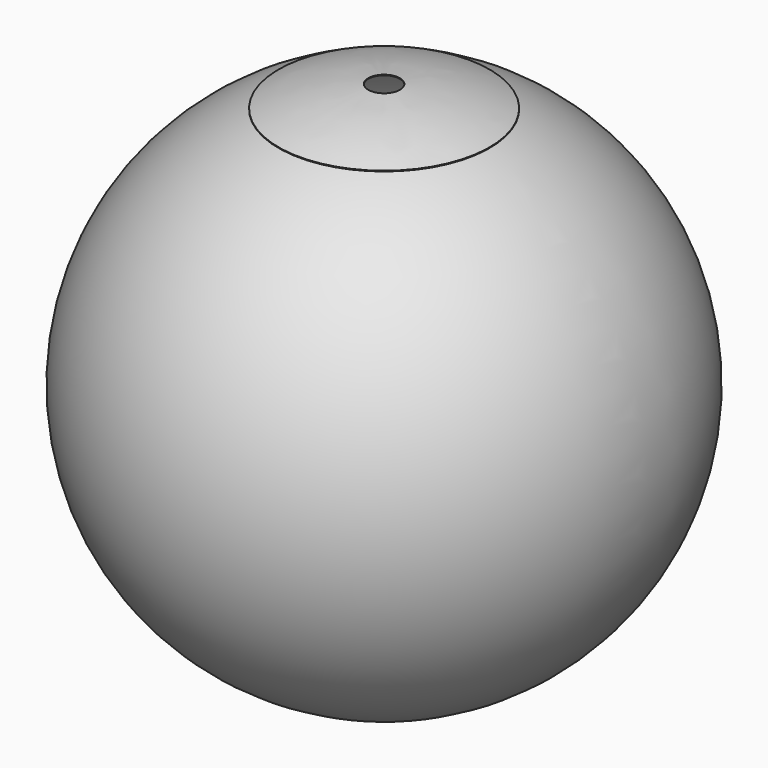
from build123d import *

# Parameters (mm, degrees)
F3_R     = 50
F4_DEPTH = 76.2
F8_R     = 15
F9_DEPTH = 114.3


with BuildPart() as f1:
    # F0 (on Front) → F1 (revolve)
    with BuildSketch(Plane.XZ):
        with BuildLine():
            Line((0, -245), (0, -250))
            ThreePointArc((0, -250), (250, 0), (0, 250))
            Line((0, 250), (0, 245))
            ThreePointArc((0, 245), (245, 0), (0, -245))
        make_face()
    revolve(axis=Axis((0, 0, 257.264091), (0, 0, -1)))

    # F3 (on offset) → F4 (cut)
    with BuildSketch(Plane.XY.offset(264.16)):
        Circle(F3_R)
    extrude(amount=-F4_DEPTH, mode=Mode.SUBTRACT)


with BuildPart() as f6:
    # F5 (on Right) → F6 (revolve)
    with BuildSketch(Plane.YZ):
        with BuildLine():
            Line((0, 251), (0, 250.4))
            ThreePointArc((0, 250.4), (51.073699, 245.135957), (100, 229.565154))
            Line((100, 229.565154), (100, 230.219461))
            ThreePointArc((100, 230.219461), (51.068167, 245.749959), (0, 251))
        make_face()
    revolve(axis=Axis((0, 0, 266.6693), (0, 0, 1)))

    # F8 (on offset) → F9 (cut)
    with BuildSketch(Plane.XY.offset(316.23)):
        Circle(F8_R)
    extrude(amount=-F9_DEPTH, mode=Mode.SUBTRACT)


solid = Compound([f1.part, f6.part])
